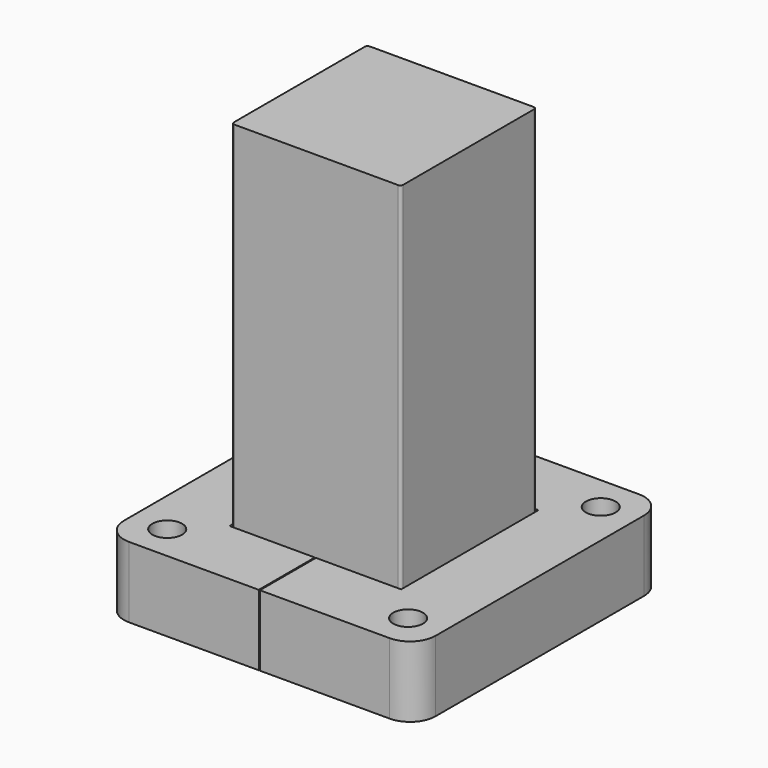
from build123d import *

# Parameters (mm, degrees)
F0_R     = 5.25
F1_DEPTH = 25
F2_R     = 9
F4_W     = 59.75
F4_H     = 59.75
F5_DEPTH = 150
F6_R     = 1


with BuildPart() as f1:
    # F0 (on Top) → F1 (new body)
    with BuildSketch(Plane.XY):
        Polygon((0.2, 30.275), (30.275, 30.275), (30.275, 0), (30.275, -30.275), (0.2, -30.275), (0.2, -55), (55, -55), (55, 0), (55, 55), (0.2, 55), align=None)
        with Locations((42.5, -42.5)):
            Circle(F0_R, mode=Mode.SUBTRACT)
        with Locations((42.5, 42.5)):
            Circle(F0_R, mode=Mode.SUBTRACT)
    extrude(amount=F1_DEPTH)

    # F2
    f2_edges = [f1.edges().sort_by_distance(p)[0] for p in [
        (55, -55, 12.5),
        (55, 55, 12.5),
    ]]
    fillet(f2_edges, radius=F2_R)


with BuildPart() as f3_1:
    # F3: instance of F1
    add(f1.part.mirror(Plane.YZ))


with BuildPart() as f5:
    # F4 (on Top) → F5 (new body)
    with BuildSketch(Plane.XY):
        Rectangle(F4_W, F4_H)
    extrude(amount=F5_DEPTH)

    # F6
    f6_edges = [f5.edges().sort_by_distance(p)[0] for p in [
        (-29.875, -29.875, 75),
        (-29.875, 29.875, 75),
        (29.875, -29.875, 75),
        (29.875, 29.875, 75),
    ]]
    fillet(f6_edges, radius=F6_R)


solid = Compound([f1.part, f3_1.part, f5.part])
